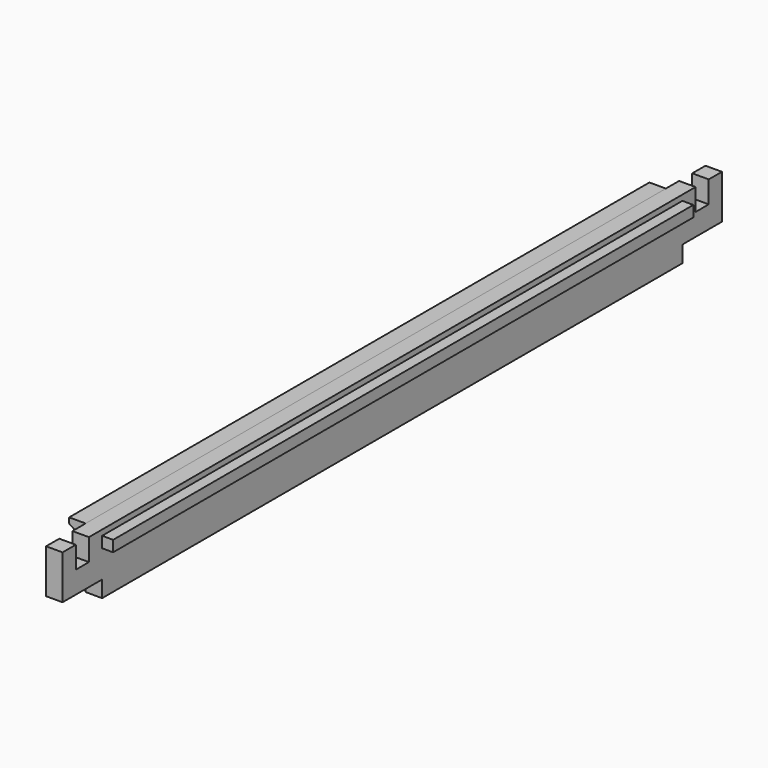
from build123d import *

# Parameters (mm, degrees)
F0_W           = 38.1
F0_H           = 952.5
F1_DEPTH       = 139.7
F2_W           = 114.3
F2_H           = 38.1
F3_DEPTH       = 38.101
F4_W           = 38.1
F4_H           = 50.8
F5_DEPTH       = 38.101
F9_DEPTH       = 838.2
F9_DEPTH_BACK  = 838.2
F10_W          = 25.4
F10_H          = 25.4
F11_DEPTH      = 838.2
F11_DEPTH_BACK = 838.2


with BuildPart() as f1:
    # F0 (on Top) → F1 (new body)
    with BuildSketch(Plane.XY):
        with Locations((0, 476.25)):
            Rectangle(F0_W, F0_H)
    extrude(amount=-F1_DEPTH)

    # F2 (on face) → F3 (cut, through all)
    with BuildSketch(Plane.YZ.offset(19.05)):
        with Locations((57.15, -120.65)):
            Rectangle(F2_W, F2_H)
    extrude(amount=-F3_DEPTH, mode=Mode.SUBTRACT)

    # F4 (on face) → F5 (cut, through all)
    with BuildSketch(Plane.YZ.offset(19.05)):
        with Locations((57.15, -25.4)):
            Rectangle(F4_W, F4_H)
    extrude(amount=-F5_DEPTH, mode=Mode.SUBTRACT)

    # F7: F1 across plane


with BuildPart() as f1_1:
    add(f1.part)
    add(f1.part.mirror(Plane(origin=(0, 952.5, -69.85), x_dir=(-1, 0, 0), z_dir=(0, 1, 0))))


with BuildPart() as f9:
    # F8 (on offset) → F9 (new body, two sides)
    with BuildSketch(Plane(origin=(0, 952.5, 0), x_dir=(-1, 0, 0), z_dir=(0, 1, 0))) as f9_sk:
        Polygon((57.15, -12.7), (57.15, 0), (19.05, 0), (19.05, -38.1), align=None)
    extrude(amount=F9_DEPTH)
    extrude(f9_sk.sketch, amount=-F9_DEPTH_BACK)


with BuildPart() as f11:
    # F10 (on offset) → F11 (new body, two sides)
    with BuildSketch(Plane(origin=(0, 952.5, 0), x_dir=(-1, 0, 0), z_dir=(0, 1, 0))) as f11_sk:
        with Locations((-31.75, -25.4)):
            Rectangle(F10_W, F10_H)
    extrude(amount=F11_DEPTH)
    extrude(f11_sk.sketch, amount=-F11_DEPTH_BACK)


solid = Compound([f1_1.part, f9.part, f11.part])
